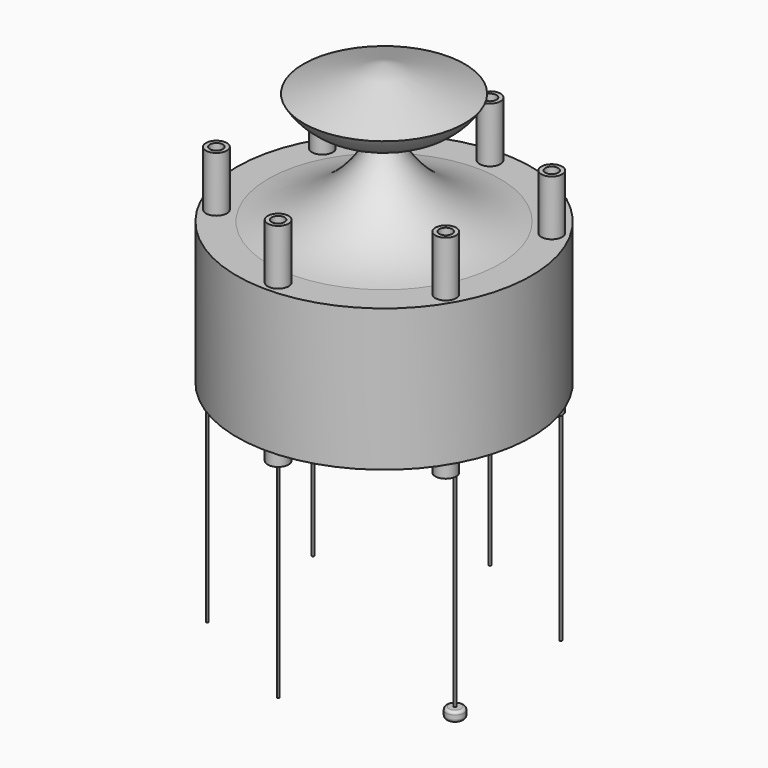
from build123d import *

# Parameters (mm, degrees)
F2_R      = 4.812608174
F2_R_2    = 2.9718933484
F3_DEPTH  = 25.4
F4_DEPTH  = 97.536
F5_R      = 0.4947488438
F6_DEPTH  = 93.726
F7_R      = 4.0773088167
F8_DEPTH  = 4.572
F9_R      = 1.27
F10_DEPTH = 65.278


with BuildPart() as f1:
    # F0 (on Front) → F1 (revolve)
    with BuildSketch(Plane.XZ):
        with BuildLine():
            Line((-53.1712156031, 0), (-67.7257552743, 0))
            ThreePointArc((-67.7257552743, 0), (-60.4484854387, -0.4387685418), (-53.1712156031, 0))
        make_face()
    revolve(axis=Axis((0, 0, 31.9710373878), (0, 0, -1)))

    # F2 (on Top) → F3 (join)
    with BuildSketch(Plane.XY):
        with Locations((0, 60.8729794621)):
            Circle(F2_R)
        with Locations((0, 60.8729794621)):
            Circle(F2_R_2, mode=Mode.SUBTRACT)
        with Locations((-52.7175466183, 30.4364897311)):
            Circle(F2_R)
        with Locations((-52.7175466183, 30.4364897311)):
            Circle(F2_R_2, mode=Mode.SUBTRACT)
        with Locations((-52.7175466183, -30.4364897311)):
            Circle(F2_R)
        with Locations((-52.7175466183, -30.4364897311)):
            Circle(F2_R_2, mode=Mode.SUBTRACT)
        with Locations((0, -60.8729794621)):
            Circle(F2_R)
        with Locations((0, -60.8729794621)):
            Circle(F2_R_2, mode=Mode.SUBTRACT)
        with Locations((52.7175466183, -30.4364897311)):
            Circle(F2_R)
        with Locations((52.7175466183, -30.4364897311)):
            Circle(F2_R_2, mode=Mode.SUBTRACT)
        with Locations((52.7175466183, 30.4364897311)):
            Circle(F2_R)
        with Locations((52.7175466183, 30.4364897311)):
            Circle(F2_R_2, mode=Mode.SUBTRACT)
    extrude(amount=F3_DEPTH)


with BuildPart() as f1b:
    # F0 (on Front) → F1, piece 2 (revolve)
    with BuildSketch(Plane.XZ):
        with BuildLine():
            ThreePointArc((-37.0114929974, 51.6695082188), (-22.332346424, 39.6100551343), (-3.3379440264, 39.9570859333))
            ThreePointArc((-3.3379440264, 39.9570859333), (-1.1024884238, 48.0217390968), (0, 56.3175459697))
            Line((0, 56.3175459697), (0, 63.9420747757))
            Line((0, 63.9420747757), (-37.0114929974, 51.6695082188))
        make_face()
        with BuildLine():
            ThreePointArc((-3.3379440264, 39.9570859333), (-22.5593083773, 12.8755723266), (-53.1712156031, 0))
            Line((-53.1712156031, 0), (0, 0))
            Line((0, 0), (0, 56.3175459697))
            ThreePointArc((0, 56.3175459697), (-1.1024884238, 48.0217390968), (-3.3379440264, 39.9570859333))
        make_face()
    revolve(axis=Axis((0, 0, 31.9710373878), (0, 0, -1)))


with BuildPart() as f4:
    # F4 (new): a face of the model
    f4_faces = [f1.part.faces().sort_by_distance(p)[0] for p in [
        (-4.676487059, 60.8729794621, 25.4),
    ]]
    extrude(f4_faces, amount=-F4_DEPTH)


with BuildPart() as f4b:
    # F4#2 (new): a face of the model
    f4_2_faces = [f1.part.faces().sort_by_distance(p)[0] for p in [
        (48.0410595593, 30.4364897311, 25.4),
    ]]
    extrude(f4_2_faces, amount=-F4_DEPTH)


with BuildPart() as f4c:
    # F4#3 (new): a face of the model
    f4_3_faces = [f1.part.faces().sort_by_distance(p)[0] for p in [
        (48.0410595593, -30.4364897311, 25.4),
    ]]
    extrude(f4_3_faces, amount=-F4_DEPTH)


with BuildPart() as f4d:
    # F4#4 (new): a face of the model
    f4_4_faces = [f1.part.faces().sort_by_distance(p)[0] for p in [
        (-4.676487059, -60.8729794621, 25.4),
    ]]
    extrude(f4_4_faces, amount=-F4_DEPTH)


with BuildPart() as f4e:
    # F4#5 (new): a face of the model
    f4_5_faces = [f1.part.faces().sort_by_distance(p)[0] for p in [
        (-57.3940336772, -30.4364897311, 25.4),
    ]]
    extrude(f4_5_faces, amount=-F4_DEPTH)


with BuildPart() as f4f:
    # F4#6 (new): a face of the model
    f4_6_faces = [f1.part.faces().sort_by_distance(p)[0] for p in [
        (-57.3940336772, 30.4364897311, 25.4),
    ]]
    extrude(f4_6_faces, amount=-F4_DEPTH)


with BuildPart() as f6:
    # F5 (on face) → F6 (new body)
    with BuildSketch(Plane(origin=(0, 0, -72.136), x_dir=(1, 0, 0), z_dir=(0, 0, -1))):
        with Locations((56.4921759069, 29.8132356256)):
            Circle(F5_R)
    extrude(amount=F6_DEPTH)

    # F7 (on face) → F8 (join)
    with BuildSketch(Plane(origin=(0, 0, -165.862), x_dir=(1, 0, 0), z_dir=(0, 0, -1))):
        with Locations((56.4921759069, 29.8132356256)):
            Circle(F7_R)
    extrude(amount=F8_DEPTH)

    # F9
    f9_edges = [f6.edges().sort_by_distance(p)[0] for p in [
        (52.414867, -29.813236, -165.862),
        (52.414867, -29.813236, -170.434),
    ]]
    fillet(f9_edges, radius=F9_R)


with BuildPart() as f6b:
    # F5 (on face) → F6, piece 2 (new body)
    with BuildSketch(Plane(origin=(0, 0, -72.136), x_dir=(1, 0, 0), z_dir=(0, 0, -1))):
        with Locations((2.4270685326, 63.8302772632)):
            Circle(F5_R)
    extrude(amount=F6_DEPTH)


with BuildPart() as f6c:
    # F5 (on face) → F6, piece 3 (new body)
    with BuildSketch(Plane(origin=(0, 0, -72.136), x_dir=(1, 0, 0), z_dir=(0, 0, -1))):
        with Locations((-54.0651073743, 34.0170416376)):
            Circle(F5_R)
    extrude(amount=F6_DEPTH)


with BuildPart() as f6d:
    # F5 (on face) → F6, piece 4 (new body)
    with BuildSketch(Plane(origin=(0, 0, -72.136), x_dir=(1, 0, 0), z_dir=(0, 0, -1))):
        with Locations((-56.4921759069, -29.8132356256)):
            Circle(F5_R)
    extrude(amount=F6_DEPTH)


with BuildPart() as f6e:
    # F5 (on face) → F6, piece 5 (new body)
    with BuildSketch(Plane(origin=(0, 0, -72.136), x_dir=(1, 0, 0), z_dir=(0, 0, -1))):
        with Locations((-2.4270685326, -63.8302772632)):
            Circle(F5_R)
    extrude(amount=F6_DEPTH)


with BuildPart() as f6f:
    # F5 (on face) → F6, piece 6 (new body)
    with BuildSketch(Plane(origin=(0, 0, -72.136), x_dir=(1, 0, 0), z_dir=(0, 0, -1))):
        with Locations((54.0651073743, -34.0170416376)):
            Circle(F5_R)
    extrude(amount=F6_DEPTH)


with BuildPart() as f10:
    # F10 (new): a face of the model
    f10_faces = [f1.part.faces().sort_by_distance(p)[0] for p in [
        (65.8101816417, 0, 0),
    ]]
    extrude(f10_faces, amount=-F10_DEPTH)


solid = Compound([f1.part, f1b.part, f4.part, f4b.part, f4c.part, f4d.part, f4e.part, f4f.part, f6.part, f6b.part, f6c.part, f6d.part, f6e.part, f6f.part, f10.part])
